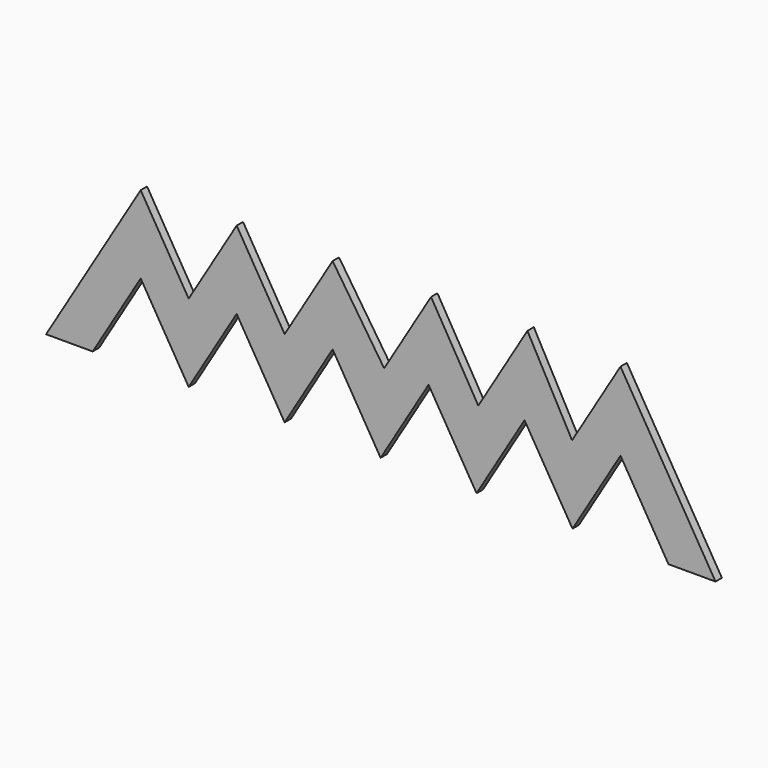
from build123d import *

# Parameters (mm, degrees)
F1_DEPTH = 3.175


with BuildPart() as f1:
    # F0 (on Front) → F1 (new body)
    with BuildSketch(Plane.XZ):
        Polygon((-98.29025, 0), (-79.24025, 31.75), (-60.19025, 0), (-41.14025, 31.75), (-22.09025, 0), (-3.04025, 31.75), (16.00975, 0), (35.05975, 31.75), (54.10975, 0), (73.15975, 31.75), (92.20975, 0), (111.25975, 31.75), (130.30975, 0), (148.993928, 0), (111.25975, 62.890296), (92.038845, 30.855454), (74.303257, 63.357976), (54.801744, 30.855454), (36.044518, 62.779292), (17.426943, 31.75), (-3.04025, 62.605454), (-22.09025, 30.855454), (-41.14025, 62.605454), (-60.19025, 30.855454), (-79.24025, 62.605454), (-116.803522, 0), align=None)
    extrude(amount=F1_DEPTH)


solid = f1.part
